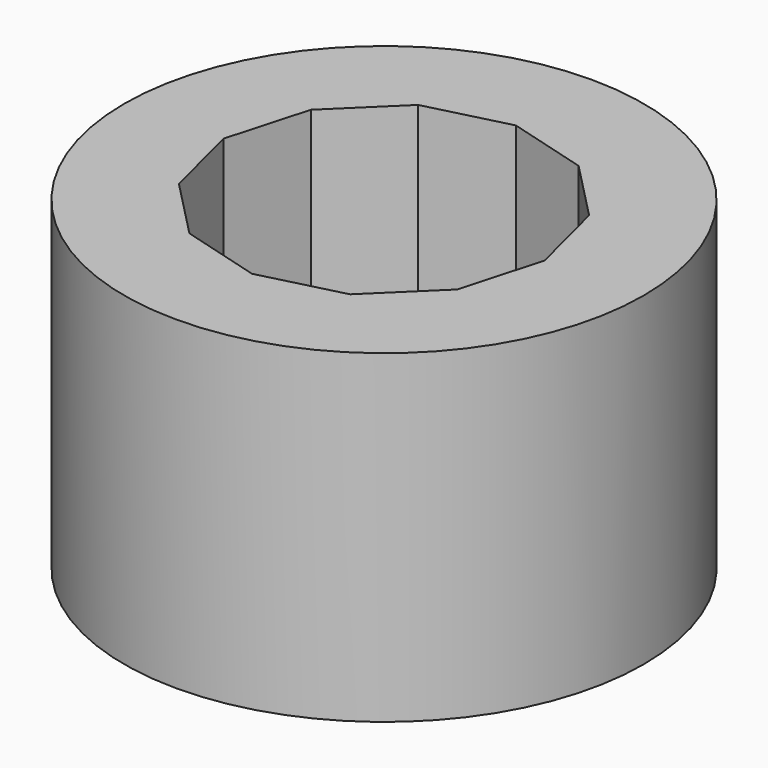
from build123d import *

# Parameters (mm, degrees)
F0_R     = 4
F1_DEPTH = 5


with BuildPart() as f1:
    # F0 (on Top) → F1 (new body)
    with BuildSketch(Plane.XY):
        Circle(F0_R)
        Polygon((-0.032408, -2.49979), (-1.277961, -2.148678), (-2.181086, -1.221829), (-2.49979, 0.032408), (-2.148678, 1.277961), (-1.221829, 2.181086), (0.032408, 2.49979), (1.277961, 2.148678), (2.181086, 1.221829), (2.49979, -0.032408), (2.148678, -1.277961), (1.221829, -2.181086), align=None, mode=Mode.SUBTRACT)
    extrude(amount=F1_DEPTH)


solid = f1.part
